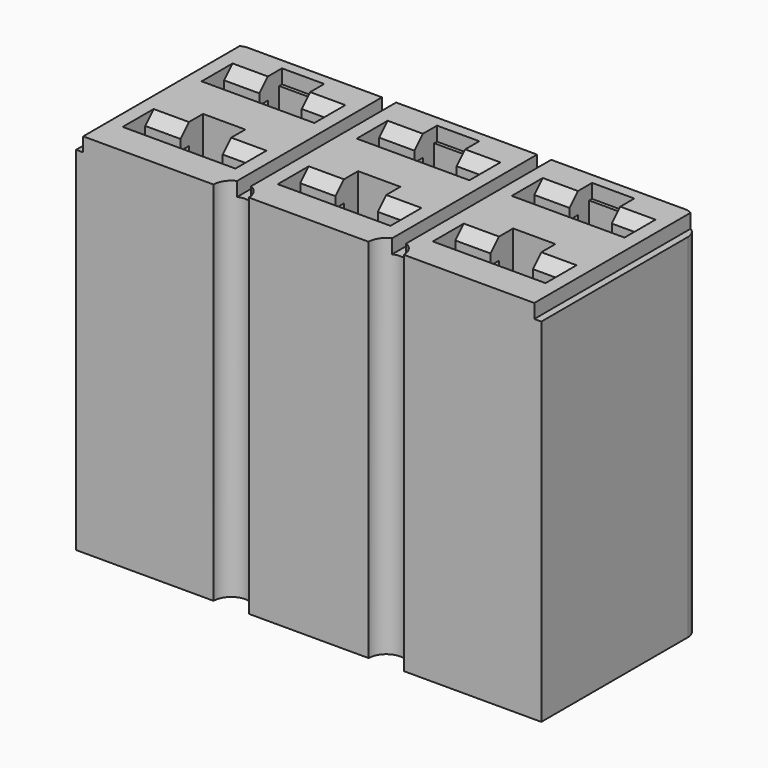
from build123d import *

# Parameters (mm, degrees)
EXTRUDE001_DEPTH        = 30
EXTRUDE_DEPTH           = 30
PAD003_DEPTH            = 10
SKETCH010_W             = 1
SKETCH010_H             = 24
PAD004_DEPTH            = 6
SKETCH011_W             = 2
SKETCH011_H             = 3
POCKET005_DEPTH         = 9.5
POCKET006_DEPTH         = 22.5
BODY002_PLACEMENT_ANGLE = 90
SKETCH_W                = 33
SKETCH_H                = 14
PAD_DEPTH               = 25
SKETCH012_W             = 9
SKETCH012_H             = 12
POCKET_DEPTH            = 25.001


with BuildPart() as rounded:
    # Sketch014 → Extrude001 (new body)
    with BuildSketch(Plane(origin=(0, 0, 0), x_dir=(1, 0, 0), z_dir=(0, 0, -1))):
        with BuildLine():
            ThreePointArc((-0.5, 1), (-0.207107, 0.292893), (0.5, 0))
            Line((0.5, 0), (31.5, 0))
            ThreePointArc((31.5, 0), (32.207107, 0.292893), (32.5, 1))
            Line((32.5, 1), (37.5, 1))
            Line((37.5, 1), (37.5, -4))
            Line((-5.5, -4), (37.5, -4))
            Line((-5.5, 1), (-5.5, -4))
            Line((-0.5, 1), (-5.5, 1))
        make_face()
    extrude(amount=-EXTRUDE001_DEPTH)


with BuildPart() as extrude_body:
    # Sketch013 → Extrude (new body)
    with BuildSketch(Plane.XY):
        with BuildLine():
            ThreePointArc((11.75, -14), (10.5, -12.75), (9.25, -14))
            Line((9.25, -14), (9.25, -15))
            Line((9.25, -15), (22.75, -15))
            Line((22.75, -15), (22.75, -14))
            ThreePointArc((22.75, -14), (21.5, -12.75), (20.25, -14))
            Line((11.75, -14), (20.25, -14))
        make_face()
    extrude(amount=EXTRUDE_DEPTH)


with BuildPart() as pinhousing:
    # Sketch009 → Pad003 (new body)
    with BuildSketch(Plane.YZ):
        Polygon((0, 0), (0, 1), (11, 1), (13, 2), (22.5, 2), (22.5, 2.75), (23.25, 2.75), (24, 2), (24, 0), align=None)
        Polygon((0, 6), (12, 6), (14, 3.75), (23.25, 3.75), (24, 4.75), (24, 7), (0, 7), align=None)
    extrude(amount=PAD003_DEPTH)

    # Sketch010 → Pad004 (join)
    with BuildSketch(Plane.XY):
        with Locations((0.5, 12)):
            Rectangle(SKETCH010_W, SKETCH010_H)
        with Locations((9.5, 12)):
            Rectangle(SKETCH010_W, SKETCH010_H)
    extrude(amount=PAD004_DEPTH)

    # Sketch011 (on Face17 of Pad003) → Pocket005 (cut)
    with BuildSketch(Plane.ZX.offset(24)):
        with Locations((1.75, 5)):
            Rectangle(SKETCH011_W, SKETCH011_H)
    extrude(amount=-POCKET005_DEPTH, mode=Mode.SUBTRACT)

    # Sketch003 → Pocket006 (cut)
    with BuildSketch(Plane.XZ):
        Polygon((1, 5), (4.23, 5), (5, 3.75), (5.77, 5), (9, 5), (9, 3.5), (1, 3.5), align=None)
    extrude(amount=-POCKET006_DEPTH, mode=Mode.SUBTRACT)


with BuildPart() as pinhousing_1:
    # Body002 placement: moved
    add(pinhousing.part.moved(Location((0, 0, 2))).rotate(Axis((0, 0, 2), (1, 0, 0)), BODY002_PLACEMENT_ANGLE))


with BuildPart() as pin6:
    # Body007 base: copy of PinHousing
    add(pinhousing_1.part)


with BuildPart() as pin6_1:
    # Body007 placement: moved
    add(pin6.part.moved(Location((22, -7, 0))))


with BuildPart() as pin5:
    # Body006 base: copy of PinHousing
    add(pinhousing_1.part)


with BuildPart() as pin5_1:
    # Body006 placement: moved
    add(pin5.part.moved(Location((11, -7, 0))))


with BuildPart() as pin4:
    # Body005 base: copy of PinHousing
    add(pinhousing_1.part)


with BuildPart() as pin4_1:
    # Body005 placement: moved
    add(pin4.part.moved(Location((0, -7, 0))))


with BuildPart() as pin3:
    # Body004 base: copy of PinHousing
    add(pinhousing_1.part)


with BuildPart() as pin3_1:
    # Body004 placement: moved
    add(pin3.part.moved(Location((22, 0, 0))))


with BuildPart() as pin2:
    # Body003 base: copy of PinHousing
    add(pinhousing_1.part)


with BuildPart() as pin2_1:
    # Body003 placement: moved
    add(pin2.part.moved(Location((11, 0, 0))))


with BuildPart() as pin1:
    # Body base: copy of PinHousing
    add(pinhousing_1.part)


with BuildPart() as finaldipplug:
    # Sketch → Pad (new body)
    with BuildSketch(Plane.XY):
        with Locations((16, -7)):
            Rectangle(SKETCH_W, SKETCH_H)
    extrude(amount=PAD_DEPTH)

    # Sketch012 → Pocket (cut, through all)
    with BuildSketch(Plane.XY):
        with Locations((5, -7)):
            Rectangle(SKETCH012_W, SKETCH012_H)
        with Locations((16, -7)):
            Rectangle(SKETCH012_W, SKETCH012_H)
        with Locations((27, -7)):
            Rectangle(SKETCH012_W, SKETCH012_H)
    extrude(amount=POCKET_DEPTH, mode=Mode.SUBTRACT)

    # Fusion: union Pin6, Pin5, Pin4, Pin3, Pin2, Pin1
    add(pin6_1.part)
    add(pin5_1.part)
    add(pin4_1.part)
    add(pin3_1.part)
    add(pin2_1.part)
    add(pin1.part)

    # Cut: cut Extrude body
    add(extrude_body.part, mode=Mode.SUBTRACT)

    # Cut001: cut Rounded
    add(rounded.part, mode=Mode.SUBTRACT)


solid = finaldipplug.part
